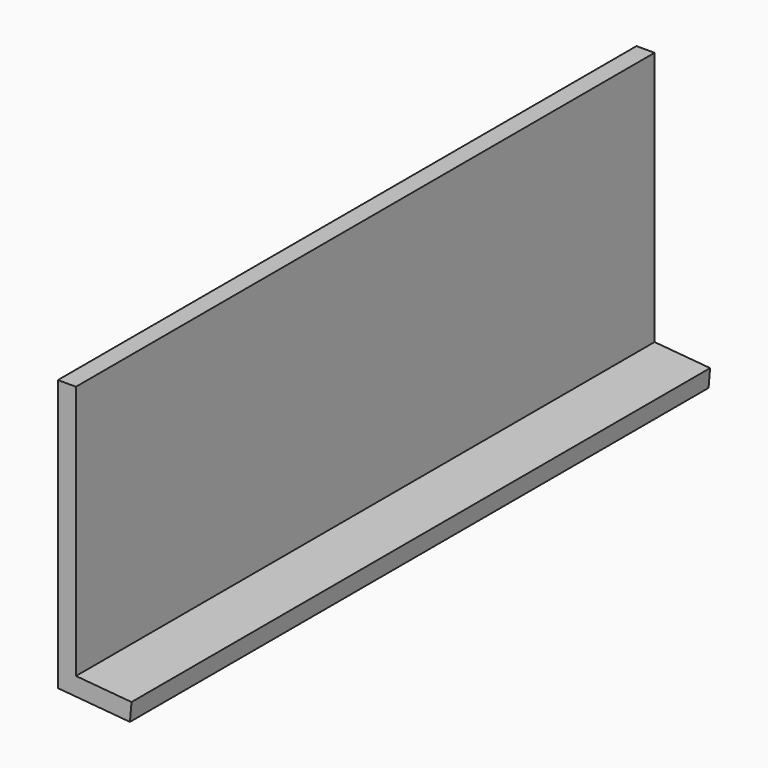
from build123d import *

# Parameters (mm, degrees)
F0_W     = 1016
F0_H     = 381
F1_DEPTH = 25.4
F3_DEPTH = 1016


with BuildPart() as f1:
    # F0 (on Right) → F1 (new body)
    with BuildSketch(Plane.YZ):
        Rectangle(F0_W, F0_H)
    extrude(amount=F1_DEPTH)

    # F2 (on face) → F3 (join, through all)
    with BuildSketch(Plane.XZ.offset(508)):
        Polygon((0, -165.002976), (0, -190.5), (101.213381, -199.355023), (103.427137, -174.051678), align=None)
    extrude(amount=-F3_DEPTH)


solid = f1.part
